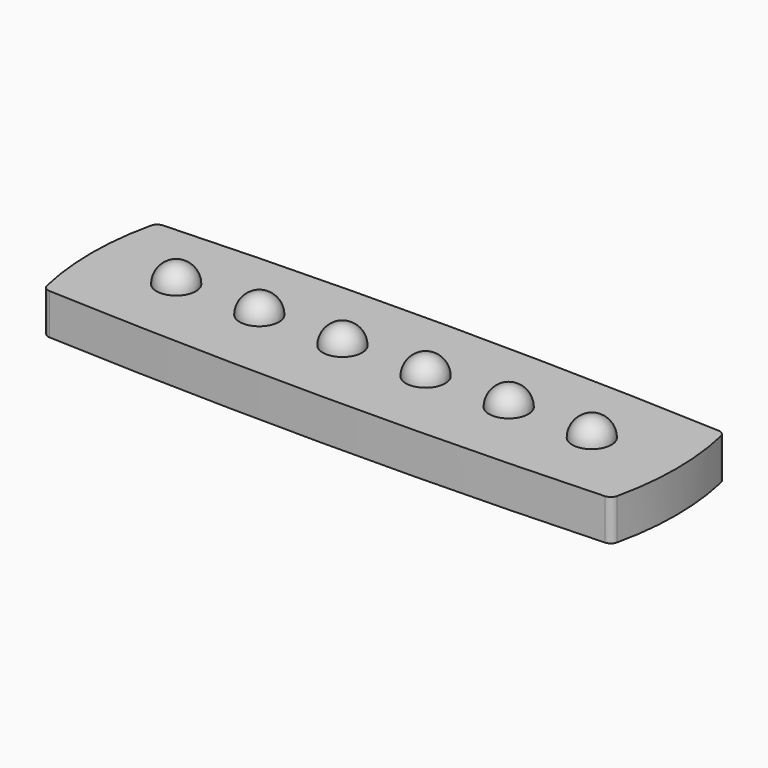
from build123d import *

# Parameters (mm, degrees)
F1_DEPTH = 5.2
F2_T     = -0.5


with BuildPart() as f1:
    # F0 (on Top) → F1 (new body)
    with BuildSketch(Plane.XY):
        with BuildLine():
            ThreePointArc((36.2717987143, 8.2581243652), (35.9383049337, 8.8032091706), (35.3428416161, 9.0350690081))
            ThreePointArc((35.3428416161, 9.0350690081), (0, 9.85), (-35.3428416161, 9.0350690081))
            ThreePointArc((-35.3428416161, 9.0350690081), (-35.9383049337, 8.8032091706), (-36.2717987143, 8.2581243652))
            ThreePointArc((-36.2717987143, 8.2581243652), (-37.2, 0), (-36.2717987143, -8.2581243652))
            ThreePointArc((-36.2717987143, -8.2581243652), (-35.9383049337, -8.8032091706), (-35.3428416161, -9.0350690081))
            ThreePointArc((-35.3428416161, -9.0350690081), (0, -9.85), (35.3428416161, -9.0350690081))
            ThreePointArc((35.3428416161, -9.0350690081), (35.9383049337, -8.8032091706), (36.2717987143, -8.2581243652))
            ThreePointArc((36.2717987143, -8.2581243652), (37.2, 0), (36.2717987143, 8.2581243652))
        make_face()
    extrude(amount=F1_DEPTH)

    # F2
    f2_openings = [f1.faces().sort_by_distance(p)[0] for p in [
        (0, 0, 0),
    ]]
    offset(amount=F2_T, openings=f2_openings)

    # F5 (on Front) → F6 (revolve)
    with BuildSketch(Plane.XZ):
        with BuildLine():
            Line((15.87, 5.2), (18.37, 5.2))
            ThreePointArc((18.37, 5.2), (17.637766953, 6.967766953), (15.87, 7.7))
            Line((15.87, 7.7), (15.87, 5.2))
        make_face()
    revolve(axis=Axis((15.87, 0, 7.7), (0, 0, 1)))

    # F5 (on Front) → F7 (revolve)
    with BuildSketch(Plane.XZ):
        with BuildLine():
            Line((-26.45, 5.2), (-23.95, 5.2))
            ThreePointArc((-23.95, 5.2), (-24.682233047, 6.967766953), (-26.45, 7.7))
            Line((-26.45, 7.7), (-26.45, 5.2))
        make_face()
    revolve(axis=Axis((-26.45, 0, 7.7), (0, 0, 1)))

    # F5 (on Front) → F8 (revolve)
    with BuildSketch(Plane.XZ):
        with BuildLine():
            Line((-15.87, 5.2), (-13.37, 5.2))
            ThreePointArc((-13.37, 5.2), (-14.102233047, 6.967766953), (-15.87, 7.7))
            Line((-15.87, 7.7), (-15.87, 5.2))
        make_face()
    revolve(axis=Axis((-15.87, 0, 7.7), (0, 0, 1)))

    # F5 (on Front) → F9 (revolve)
    with BuildSketch(Plane.XZ):
        with BuildLine():
            Line((-5.29, 5.2), (-2.79, 5.2))
            ThreePointArc((-2.79, 5.2), (-3.522233047, 6.967766953), (-5.29, 7.7))
            Line((-5.29, 7.7), (-5.29, 5.2))
        make_face()
    revolve(axis=Axis((-5.29, 0, 7.7), (0, 0, 1)))

    # F5 (on Front) → F10 (revolve)
    with BuildSketch(Plane.XZ):
        with BuildLine():
            Line((5.29, 5.2), (7.79, 5.2))
            ThreePointArc((7.79, 5.2), (7.057766953, 6.967766953), (5.29, 7.7))
            Line((5.29, 7.7), (5.29, 5.2))
        make_face()
    revolve(axis=Axis((5.29, 0, 7.7), (0, 0, 1)))

    # F5 (on Front) → F11 (revolve)
    with BuildSketch(Plane.XZ):
        with BuildLine():
            Line((26.45, 5.2), (28.95, 5.2))
            ThreePointArc((28.95, 5.2), (28.217766953, 6.967766953), (26.45, 7.7))
            Line((26.45, 7.7), (26.45, 5.2))
        make_face()
    revolve(axis=Axis((26.45, 0, 7.7), (0, 0, 1)))


solid = f1.part
